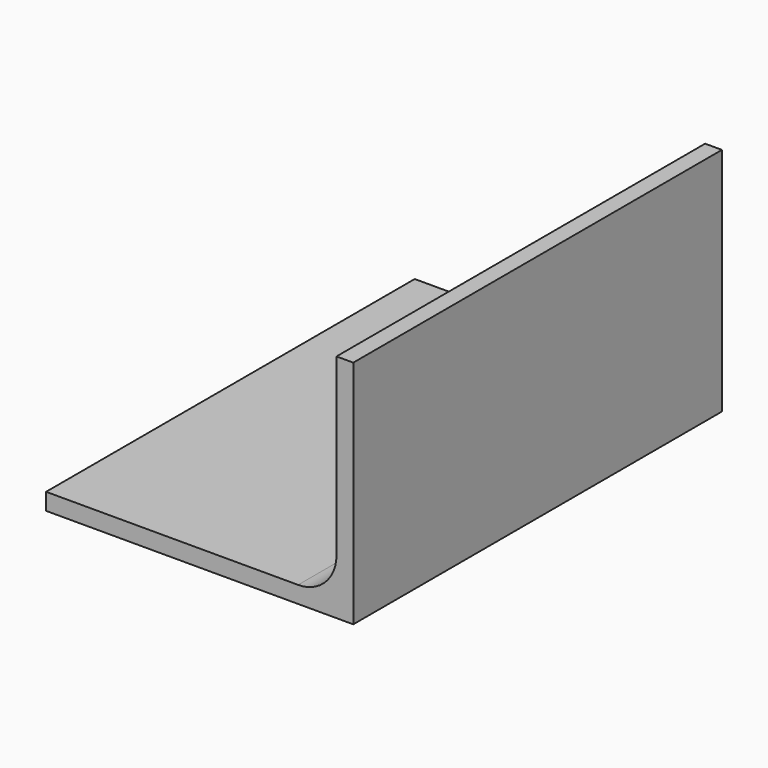
from build123d import *

# Parameters (mm, degrees)
F1_DEPTH = 152.4


with BuildPart() as f1:
    # F0 (on Front) → F1 (new body, symmetric)
    with BuildSketch(Plane.XZ):
        with BuildLine():
            Line((65.0875, 5.55625), (-101.6, 5.55625))
            Line((-101.6, 5.55625), (-101.6, -5.55625))
            Line((-101.6, -5.55625), (101.6, -5.55625))
            Line((101.6, -5.55625), (101.6, 146.84375))
            Line((101.6, 146.84375), (90.4875, 146.84375))
            Line((90.4875, 146.84375), (90.4875, 30.95625))
            ThreePointArc((90.4875, 30.95625), (83.048012, 12.995738), (65.0875, 5.55625))
        make_face()
    extrude(amount=F1_DEPTH, both=True)


solid = f1.part
